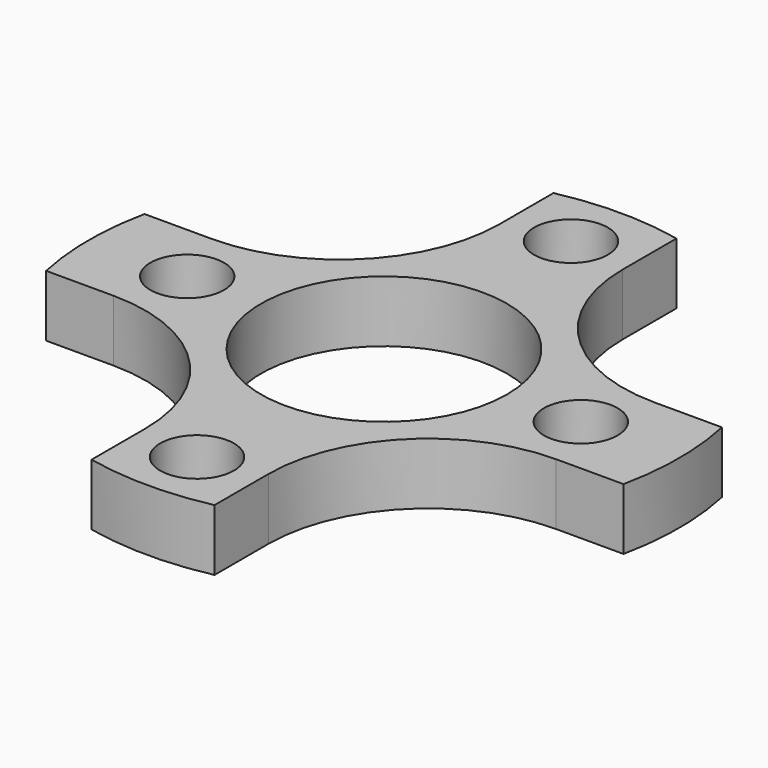
from build123d import *

# Parameters (mm, degrees)
F0_R     = 1.5
F0_R_2   = 5
F1_DEPTH = 2.5


with BuildPart() as f1:
    # F0 (on Top) → F1 (new body)
    with BuildSketch(Plane.XY):
        with BuildLine():
            Line((-2.5, 11.736695), (-2.5, 9.5))
            Line((-2.5, 9.5), (-2.5, 9))
            ThreePointArc((-2.5, 9), (-4.403806, 4.403806), (-9, 2.5))
            Line((-9, 2.5), (-11.736695, 2.5))
            ThreePointArc((-11.736695, 2.5), (-12, 0), (-11.736695, -2.5))
            Line((-11.736695, -2.5), (-9, -2.5))
            ThreePointArc((-9, -2.5), (-4.403806, -4.403806), (-2.5, -9))
            Line((-2.5, -9), (-2.5, -9.5))
            Line((-2.5, -9.5), (-2.5, -11.736695))
            ThreePointArc((-2.5, -11.736695), (0, -12), (2.5, -11.736695))
            Line((2.5, -11.736695), (2.5, -9.5))
            Line((2.5, -9.5), (2.5, -9))
            ThreePointArc((2.5, -9), (4.403806, -4.403806), (9, -2.5))
            Line((9, -2.5), (11.736695, -2.5))
            ThreePointArc((11.736695, -2.5), (12, 0), (11.736695, 2.5))
            Line((11.736695, 2.5), (9, 2.5))
            ThreePointArc((9, 2.5), (4.403806, 4.403806), (2.5, 9))
            Line((2.5, 9), (2.5, 9.5))
            Line((2.5, 9.5), (2.5, 11.736695))
            ThreePointArc((2.5, 11.736695), (0, 12), (-2.5, 11.736695))
        make_face()
        with Locations((0, -9.5)):
            Circle(F0_R, mode=Mode.SUBTRACT)
        with Locations((-8, 0)):
            Circle(F0_R, mode=Mode.SUBTRACT)
        Circle(F0_R_2, mode=Mode.SUBTRACT)
        with Locations((8, 0)):
            Circle(F0_R, mode=Mode.SUBTRACT)
        with Locations((0, 9.5)):
            Circle(F0_R, mode=Mode.SUBTRACT)
    extrude(amount=F1_DEPTH)


solid = f1.part
